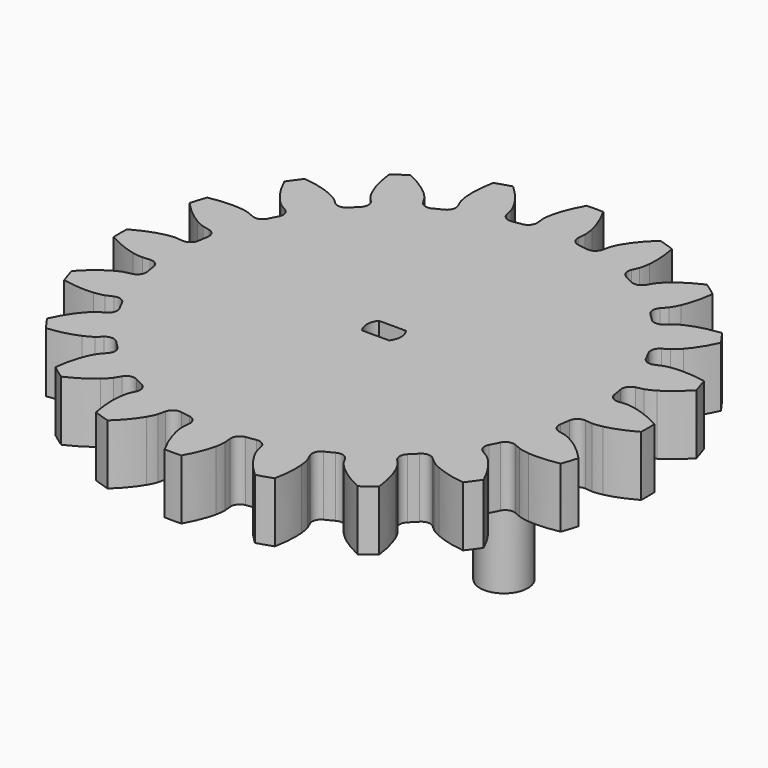
from build123d import *

# Parameters (mm, degrees)
PAD_DEPTH    = 10
POCKET_DEPTH = 10
SKETCH002_R  = 4
PAD001_DEPTH = 20
SKETCH003_R  = 4
PAD002_DEPTH = 20


with BuildPart() as part:
    # InvoluteGear → Pad (new body)
    with BuildSketch(Plane.XY):
        with BuildLine():
            Line((36.31006, -3.402875), (37.495418, -3.510949))
            add(Edge.make_bspline(
                [(37.495418, -3.510949), (37.684354, -3.516987), (38.253052, -3.51208), (39.201904, -3.30664)],
                knots=[0, 0, 0, 0, 1, 1, 1, 1], degree=3))
            add(Edge.make_bspline(
                [(39.201904, -3.30664), (40.336938, -3.057111), (41.97033, -2.52294), (43.982486, -1.38787)],
                knots=[0, 0, 0, 0, 1, 1, 1, 1], degree=3))
            ThreePointArc((43.982486, -1.38787), (44.00438, 0), (43.982486, 1.38787))
            add(Edge.make_bspline(
                [(43.982486, 1.38787), (41.97033, 2.52294), (40.336938, 3.057111), (39.201904, 3.30664)],
                knots=[0, 0, 0, 0, 1, 1, 1, 1], degree=3))
            add(Edge.make_bspline(
                [(39.201904, 3.30664), (38.253052, 3.51208), (37.684354, 3.516987), (37.495418, 3.510949)],
                knots=[0, 0, 0, 0, 1, 1, 1, 1], degree=3))
            Line((37.495418, 3.510949), (36.31006, 3.402875))
            ThreePointArc((36.31006, 3.402875), (35.237448, 3.721526), (34.683818, 4.693908))
            ThreePointArc((34.683818, 4.693908), (34.569092, 5.475206), (34.436768, 6.253717))
            ThreePointArc((34.436768, 6.253717), (34.662819, 7.349589), (35.584465, 7.984099))
            Line((35.584465, 7.984099), (36.745204, 8.247611))
            add(Edge.make_bspline(
                [(36.745204, 8.247611), (36.926759, 8.300253), (37.466107, 8.480657), (38.305035, 8.969253)],
                knots=[0, 0, 0, 0, 1, 1, 1, 1], degree=3))
            add(Edge.make_bspline(
                [(38.305035, 8.969253), (39.307406, 9.557314), (40.695787, 10.570086), (42.258705, 12.271393)],
                knots=[0, 0, 0, 0, 1, 1, 1, 1], degree=3))
            ThreePointArc((42.258705, 12.271393), (41.850652, 13.598101), (41.400954, 14.911278))
            add(Edge.make_bspline(
                [(41.400954, 14.911278), (39.136524, 15.369004), (37.418008, 15.372284), (36.261419, 15.258856)],
                knots=[0, 0, 0, 0, 1, 1, 1, 1], degree=3))
            add(Edge.make_bspline(
                [(36.261419, 15.258856), (35.295522, 15.161029), (34.753141, 14.989959), (34.575319, 14.925832)],
                knots=[0, 0, 0, 0, 1, 1, 1, 1], degree=3))
            Line((34.575319, 14.925832), (33.481373, 14.456752))
            ThreePointArc((33.481373, 14.456752), (32.36279, 14.428352), (31.535774, 15.182061))
            ThreePointArc((31.535774, 15.182061), (31.185228, 15.889667), (30.818808, 16.589185))
            ThreePointArc((30.818808, 16.589185), (30.695152, 17.701275), (31.375615, 18.589534))
            Line((31.375615, 18.589534), (32.398114, 19.198837))
            add(Edge.make_bspline(
                [(32.398114, 19.198837), (32.554515, 19.305005), (33.011718, 19.643248), (33.658601, 20.367173)],
                knots=[0, 0, 0, 0, 1, 1, 1, 1], degree=3))
            add(Edge.make_bspline(
                [(33.658601, 20.367173), (34.430193, 21.236202), (35.437657, 22.628439), (36.398348, 24.729446)],
                knots=[0, 0, 0, 0, 1, 1, 1, 1], degree=3))
            ThreePointArc((36.398348, 24.729446), (35.600291, 25.865125), (34.766809, 26.975067))
            add(Edge.make_bspline(
                [(34.766809, 26.975067), (32.471763, 26.710642), (30.836343, 26.182712), (29.771413, 25.717429)],
                knots=[0, 0, 0, 0, 1, 1, 1, 1], degree=3))
            add(Edge.make_bspline(
                [(29.771413, 25.717429), (28.883021, 25.325912), (28.42005, 24.995609), (28.270747, 24.879671)],
                knots=[0, 0, 0, 0, 1, 1, 1, 1], degree=3))
            Line((28.270747, 24.879671), (27.375296, 24.095501))
            ThreePointArc((27.375296, 24.095501), (26.320236, 23.72283), (25.300788, 24.184088))
            ThreePointArc((25.300788, 24.184088), (24.748737, 24.748737), (24.184088, 25.300788))
            ThreePointArc((24.184088, 25.300788), (23.72283, 26.320236), (24.095501, 27.375296))
            Line((24.095501, 27.375296), (24.879671, 28.270747))
            add(Edge.make_bspline(
                [(24.879671, 28.270747), (24.995609, 28.42005), (25.325912, 28.883021), (25.717429, 29.771413)],
                knots=[0, 0, 0, 0, 1, 1, 1, 1], degree=3))
            add(Edge.make_bspline(
                [(25.717429, 29.771413), (26.182712, 30.836343), (26.710642, 32.471763), (26.975067, 34.766809)],
                knots=[0, 0, 0, 0, 1, 1, 1, 1], degree=3))
            ThreePointArc((26.975067, 34.766809), (25.865125, 35.600291), (24.729446, 36.398348))
            add(Edge.make_bspline(
                [(24.729446, 36.398348), (22.628439, 35.437657), (21.236202, 34.430193), (20.367173, 33.658601)],
                knots=[0, 0, 0, 0, 1, 1, 1, 1], degree=3))
            add(Edge.make_bspline(
                [(20.367173, 33.658601), (19.643248, 33.011718), (19.305005, 32.554515), (19.198837, 32.398114)],
                knots=[0, 0, 0, 0, 1, 1, 1, 1], degree=3))
            Line((19.198837, 32.398114), (18.589534, 31.375615))
            ThreePointArc((18.589534, 31.375615), (17.701275, 30.695152), (16.589185, 30.818808))
            ThreePointArc((16.589185, 30.818808), (15.889667, 31.185228), (15.182061, 31.535774))
            ThreePointArc((15.182061, 31.535774), (14.428352, 32.36279), (14.456752, 33.481373))
            Line((14.456752, 33.481373), (14.925832, 34.575319))
            add(Edge.make_bspline(
                [(14.925832, 34.575319), (14.989959, 34.753141), (15.161029, 35.295522), (15.258856, 36.261419)],
                knots=[0, 0, 0, 0, 1, 1, 1, 1], degree=3))
            add(Edge.make_bspline(
                [(15.258856, 36.261419), (15.372284, 37.418008), (15.369004, 39.136524), (14.911278, 41.400954)],
                knots=[0, 0, 0, 0, 1, 1, 1, 1], degree=3))
            ThreePointArc((14.911278, 41.400954), (13.598101, 41.850652), (12.271393, 42.258705))
            add(Edge.make_bspline(
                [(12.271393, 42.258705), (10.570086, 40.695787), (9.557314, 39.307406), (8.969253, 38.305035)],
                knots=[0, 0, 0, 0, 1, 1, 1, 1], degree=3))
            add(Edge.make_bspline(
                [(8.969253, 38.305035), (8.480657, 37.466107), (8.300253, 36.926759), (8.247611, 36.745204)],
                knots=[0, 0, 0, 0, 1, 1, 1, 1], degree=3))
            Line((8.247611, 36.745204), (7.984099, 35.584465))
            ThreePointArc((7.984099, 35.584465), (7.349589, 34.662819), (6.253717, 34.436768))
            ThreePointArc((6.253717, 34.436768), (5.475206, 34.569092), (4.693908, 34.683818))
            ThreePointArc((4.693908, 34.683818), (3.721526, 35.237448), (3.402875, 36.31006))
            Line((3.402875, 36.31006), (3.510949, 37.495418))
            add(Edge.make_bspline(
                [(3.510949, 37.495418), (3.516987, 37.684354), (3.51208, 38.253052), (3.30664, 39.201904)],
                knots=[0, 0, 0, 0, 1, 1, 1, 1], degree=3))
            add(Edge.make_bspline(
                [(3.30664, 39.201904), (3.057111, 40.336938), (2.52294, 41.97033), (1.38787, 43.982486)],
                knots=[0, 0, 0, 0, 1, 1, 1, 1], degree=3))
            ThreePointArc((1.38787, 43.982486), (0, 44.00438), (-1.38787, 43.982486))
            add(Edge.make_bspline(
                [(-1.38787, 43.982486), (-2.52294, 41.97033), (-3.057111, 40.336938), (-3.30664, 39.201904)],
                knots=[0, 0, 0, 0, 1, 1, 1, 1], degree=3))
            add(Edge.make_bspline(
                [(-3.30664, 39.201904), (-3.51208, 38.253052), (-3.516987, 37.684354), (-3.510949, 37.495418)],
                knots=[0, 0, 0, 0, 1, 1, 1, 1], degree=3))
            Line((-3.510949, 37.495418), (-3.402875, 36.31006))
            ThreePointArc((-3.402875, 36.31006), (-3.721526, 35.237448), (-4.693908, 34.683818))
            ThreePointArc((-4.693908, 34.683818), (-5.475206, 34.569092), (-6.253717, 34.436768))
            ThreePointArc((-6.253717, 34.436768), (-7.349589, 34.662819), (-7.984099, 35.584465))
            Line((-7.984099, 35.584465), (-8.247611, 36.745204))
            add(Edge.make_bspline(
                [(-8.247611, 36.745204), (-8.300253, 36.926759), (-8.480657, 37.466107), (-8.969253, 38.305035)],
                knots=[0, 0, 0, 0, 1, 1, 1, 1], degree=3))
            add(Edge.make_bspline(
                [(-8.969253, 38.305035), (-9.557314, 39.307406), (-10.570086, 40.695787), (-12.271393, 42.258705)],
                knots=[0, 0, 0, 0, 1, 1, 1, 1], degree=3))
            ThreePointArc((-12.271393, 42.258705), (-13.598101, 41.850652), (-14.911278, 41.400954))
            add(Edge.make_bspline(
                [(-14.911278, 41.400954), (-15.369004, 39.136524), (-15.372284, 37.418008), (-15.258856, 36.261419)],
                knots=[0, 0, 0, 0, 1, 1, 1, 1], degree=3))
            add(Edge.make_bspline(
                [(-15.258856, 36.261419), (-15.161029, 35.295522), (-14.989959, 34.753141), (-14.925832, 34.575319)],
                knots=[0, 0, 0, 0, 1, 1, 1, 1], degree=3))
            Line((-14.925832, 34.575319), (-14.456752, 33.481373))
            ThreePointArc((-14.456752, 33.481373), (-14.428352, 32.36279), (-15.182061, 31.535774))
            ThreePointArc((-15.182061, 31.535774), (-15.889667, 31.185228), (-16.589185, 30.818808))
            ThreePointArc((-16.589185, 30.818808), (-17.701275, 30.695152), (-18.589534, 31.375615))
            Line((-18.589534, 31.375615), (-19.198837, 32.398114))
            add(Edge.make_bspline(
                [(-19.198837, 32.398114), (-19.305005, 32.554515), (-19.643248, 33.011718), (-20.367173, 33.658601)],
                knots=[0, 0, 0, 0, 1, 1, 1, 1], degree=3))
            add(Edge.make_bspline(
                [(-20.367173, 33.658601), (-21.236202, 34.430193), (-22.628439, 35.437657), (-24.729446, 36.398348)],
                knots=[0, 0, 0, 0, 1, 1, 1, 1], degree=3))
            ThreePointArc((-24.729446, 36.398348), (-25.865125, 35.600291), (-26.975067, 34.766809))
            add(Edge.make_bspline(
                [(-26.975067, 34.766809), (-26.710642, 32.471763), (-26.182712, 30.836343), (-25.717429, 29.771413)],
                knots=[0, 0, 0, 0, 1, 1, 1, 1], degree=3))
            add(Edge.make_bspline(
                [(-25.717429, 29.771413), (-25.325912, 28.883021), (-24.995609, 28.42005), (-24.879671, 28.270747)],
                knots=[0, 0, 0, 0, 1, 1, 1, 1], degree=3))
            Line((-24.879671, 28.270747), (-24.095501, 27.375296))
            ThreePointArc((-24.095501, 27.375296), (-23.72283, 26.320236), (-24.184088, 25.300788))
            ThreePointArc((-24.184088, 25.300788), (-24.748737, 24.748737), (-25.300788, 24.184088))
            ThreePointArc((-25.300788, 24.184088), (-26.320236, 23.72283), (-27.375296, 24.095501))
            Line((-27.375296, 24.095501), (-28.270747, 24.879671))
            add(Edge.make_bspline(
                [(-28.270747, 24.879671), (-28.42005, 24.995609), (-28.883021, 25.325912), (-29.771413, 25.717429)],
                knots=[0, 0, 0, 0, 1, 1, 1, 1], degree=3))
            add(Edge.make_bspline(
                [(-29.771413, 25.717429), (-30.836343, 26.182712), (-32.471763, 26.710642), (-34.766809, 26.975067)],
                knots=[0, 0, 0, 0, 1, 1, 1, 1], degree=3))
            ThreePointArc((-34.766809, 26.975067), (-35.600291, 25.865125), (-36.398348, 24.729446))
            add(Edge.make_bspline(
                [(-36.398348, 24.729446), (-35.437657, 22.628439), (-34.430193, 21.236202), (-33.658601, 20.367173)],
                knots=[0, 0, 0, 0, 1, 1, 1, 1], degree=3))
            add(Edge.make_bspline(
                [(-33.658601, 20.367173), (-33.011718, 19.643248), (-32.554515, 19.305005), (-32.398114, 19.198837)],
                knots=[0, 0, 0, 0, 1, 1, 1, 1], degree=3))
            Line((-32.398114, 19.198837), (-31.375615, 18.589534))
            ThreePointArc((-31.375615, 18.589534), (-30.695152, 17.701275), (-30.818808, 16.589185))
            ThreePointArc((-30.818808, 16.589185), (-31.185228, 15.889667), (-31.535774, 15.182061))
            ThreePointArc((-31.535774, 15.182061), (-32.36279, 14.428352), (-33.481373, 14.456752))
            Line((-33.481373, 14.456752), (-34.575319, 14.925832))
            add(Edge.make_bspline(
                [(-34.575319, 14.925832), (-34.753141, 14.989959), (-35.295522, 15.161029), (-36.261419, 15.258856)],
                knots=[0, 0, 0, 0, 1, 1, 1, 1], degree=3))
            add(Edge.make_bspline(
                [(-36.261419, 15.258856), (-37.418008, 15.372284), (-39.136524, 15.369004), (-41.400954, 14.911278)],
                knots=[0, 0, 0, 0, 1, 1, 1, 1], degree=3))
            ThreePointArc((-41.400954, 14.911278), (-41.850652, 13.598101), (-42.258705, 12.271393))
            add(Edge.make_bspline(
                [(-42.258705, 12.271393), (-40.695787, 10.570086), (-39.307406, 9.557314), (-38.305035, 8.969253)],
                knots=[0, 0, 0, 0, 1, 1, 1, 1], degree=3))
            add(Edge.make_bspline(
                [(-38.305035, 8.969253), (-37.466107, 8.480657), (-36.926759, 8.300253), (-36.745204, 8.247611)],
                knots=[0, 0, 0, 0, 1, 1, 1, 1], degree=3))
            Line((-36.745204, 8.247611), (-35.584465, 7.984099))
            ThreePointArc((-35.584465, 7.984099), (-34.662819, 7.349589), (-34.436768, 6.253717))
            ThreePointArc((-34.436768, 6.253717), (-34.569092, 5.475206), (-34.683818, 4.693908))
            ThreePointArc((-34.683818, 4.693908), (-35.237448, 3.721526), (-36.31006, 3.402875))
            Line((-36.31006, 3.402875), (-37.495418, 3.510949))
            add(Edge.make_bspline(
                [(-37.495418, 3.510949), (-37.684354, 3.516987), (-38.253052, 3.51208), (-39.201904, 3.30664)],
                knots=[0, 0, 0, 0, 1, 1, 1, 1], degree=3))
            add(Edge.make_bspline(
                [(-39.201904, 3.30664), (-40.336938, 3.057111), (-41.97033, 2.52294), (-43.982486, 1.38787)],
                knots=[0, 0, 0, 0, 1, 1, 1, 1], degree=3))
            ThreePointArc((-43.982486, 1.38787), (-44.00438, 0), (-43.982486, -1.38787))
            add(Edge.make_bspline(
                [(-43.982486, -1.38787), (-41.97033, -2.52294), (-40.336938, -3.057111), (-39.201904, -3.30664)],
                knots=[0, 0, 0, 0, 1, 1, 1, 1], degree=3))
            add(Edge.make_bspline(
                [(-39.201904, -3.30664), (-38.253052, -3.51208), (-37.684354, -3.516987), (-37.495418, -3.510949)],
                knots=[0, 0, 0, 0, 1, 1, 1, 1], degree=3))
            Line((-37.495418, -3.510949), (-36.31006, -3.402875))
            ThreePointArc((-36.31006, -3.402875), (-35.237448, -3.721526), (-34.683818, -4.693908))
            ThreePointArc((-34.683818, -4.693908), (-34.569092, -5.475206), (-34.436768, -6.253717))
            ThreePointArc((-34.436768, -6.253717), (-34.662819, -7.349589), (-35.584465, -7.984099))
            Line((-35.584465, -7.984099), (-36.745204, -8.247611))
            add(Edge.make_bspline(
                [(-36.745204, -8.247611), (-36.926759, -8.300253), (-37.466107, -8.480657), (-38.305035, -8.969253)],
                knots=[0, 0, 0, 0, 1, 1, 1, 1], degree=3))
            add(Edge.make_bspline(
                [(-38.305035, -8.969253), (-39.307406, -9.557314), (-40.695787, -10.570086), (-42.258705, -12.271393)],
                knots=[0, 0, 0, 0, 1, 1, 1, 1], degree=3))
            ThreePointArc((-42.258705, -12.271393), (-41.850652, -13.598101), (-41.400954, -14.911278))
            add(Edge.make_bspline(
                [(-41.400954, -14.911278), (-39.136524, -15.369004), (-37.418008, -15.372284), (-36.261419, -15.258856)],
                knots=[0, 0, 0, 0, 1, 1, 1, 1], degree=3))
            add(Edge.make_bspline(
                [(-36.261419, -15.258856), (-35.295522, -15.161029), (-34.753141, -14.989959), (-34.575319, -14.925832)],
                knots=[0, 0, 0, 0, 1, 1, 1, 1], degree=3))
            Line((-34.575319, -14.925832), (-33.481373, -14.456752))
            ThreePointArc((-33.481373, -14.456752), (-32.36279, -14.428352), (-31.535774, -15.182061))
            ThreePointArc((-31.535774, -15.182061), (-31.185228, -15.889667), (-30.818808, -16.589185))
            ThreePointArc((-30.818808, -16.589185), (-30.695152, -17.701275), (-31.375615, -18.589534))
            Line((-31.375615, -18.589534), (-32.398114, -19.198837))
            add(Edge.make_bspline(
                [(-32.398114, -19.198837), (-32.554515, -19.305005), (-33.011718, -19.643248), (-33.658601, -20.367173)],
                knots=[0, 0, 0, 0, 1, 1, 1, 1], degree=3))
            add(Edge.make_bspline(
                [(-33.658601, -20.367173), (-34.430193, -21.236202), (-35.437657, -22.628439), (-36.398348, -24.729446)],
                knots=[0, 0, 0, 0, 1, 1, 1, 1], degree=3))
            ThreePointArc((-36.398348, -24.729446), (-35.600291, -25.865125), (-34.766809, -26.975067))
            add(Edge.make_bspline(
                [(-34.766809, -26.975067), (-32.471763, -26.710642), (-30.836343, -26.182712), (-29.771413, -25.717429)],
                knots=[0, 0, 0, 0, 1, 1, 1, 1], degree=3))
            add(Edge.make_bspline(
                [(-29.771413, -25.717429), (-28.883021, -25.325912), (-28.42005, -24.995609), (-28.270747, -24.879671)],
                knots=[0, 0, 0, 0, 1, 1, 1, 1], degree=3))
            Line((-28.270747, -24.879671), (-27.375296, -24.095501))
            ThreePointArc((-27.375296, -24.095501), (-26.320236, -23.72283), (-25.300788, -24.184088))
            ThreePointArc((-25.300788, -24.184088), (-24.748737, -24.748737), (-24.184088, -25.300788))
            ThreePointArc((-24.184088, -25.300788), (-23.72283, -26.320236), (-24.095501, -27.375296))
            Line((-24.095501, -27.375296), (-24.879671, -28.270747))
            add(Edge.make_bspline(
                [(-24.879671, -28.270747), (-24.995609, -28.42005), (-25.325912, -28.883021), (-25.717429, -29.771413)],
                knots=[0, 0, 0, 0, 1, 1, 1, 1], degree=3))
            add(Edge.make_bspline(
                [(-25.717429, -29.771413), (-26.182712, -30.836343), (-26.710642, -32.471763), (-26.975067, -34.766809)],
                knots=[0, 0, 0, 0, 1, 1, 1, 1], degree=3))
            ThreePointArc((-26.975067, -34.766809), (-25.865125, -35.600291), (-24.729446, -36.398348))
            add(Edge.make_bspline(
                [(-24.729446, -36.398348), (-22.628439, -35.437657), (-21.236202, -34.430193), (-20.367173, -33.658601)],
                knots=[0, 0, 0, 0, 1, 1, 1, 1], degree=3))
            add(Edge.make_bspline(
                [(-20.367173, -33.658601), (-19.643248, -33.011718), (-19.305005, -32.554515), (-19.198837, -32.398114)],
                knots=[0, 0, 0, 0, 1, 1, 1, 1], degree=3))
            Line((-19.198837, -32.398114), (-18.589534, -31.375615))
            ThreePointArc((-18.589534, -31.375615), (-17.701275, -30.695152), (-16.589185, -30.818808))
            ThreePointArc((-16.589185, -30.818808), (-15.889667, -31.185228), (-15.182061, -31.535774))
            ThreePointArc((-15.182061, -31.535774), (-14.428352, -32.36279), (-14.456752, -33.481373))
            Line((-14.456752, -33.481373), (-14.925832, -34.575319))
            add(Edge.make_bspline(
                [(-14.925832, -34.575319), (-14.989959, -34.753141), (-15.161029, -35.295522), (-15.258856, -36.261419)],
                knots=[0, 0, 0, 0, 1, 1, 1, 1], degree=3))
            add(Edge.make_bspline(
                [(-15.258856, -36.261419), (-15.372284, -37.418008), (-15.369004, -39.136524), (-14.911278, -41.400954)],
                knots=[0, 0, 0, 0, 1, 1, 1, 1], degree=3))
            ThreePointArc((-14.911278, -41.400954), (-13.598101, -41.850652), (-12.271393, -42.258705))
            add(Edge.make_bspline(
                [(-12.271393, -42.258705), (-10.570086, -40.695787), (-9.557314, -39.307406), (-8.969253, -38.305035)],
                knots=[0, 0, 0, 0, 1, 1, 1, 1], degree=3))
            add(Edge.make_bspline(
                [(-8.969253, -38.305035), (-8.480657, -37.466107), (-8.300253, -36.926759), (-8.247611, -36.745204)],
                knots=[0, 0, 0, 0, 1, 1, 1, 1], degree=3))
            Line((-8.247611, -36.745204), (-7.984099, -35.584465))
            ThreePointArc((-7.984099, -35.584465), (-7.349589, -34.662819), (-6.253717, -34.436768))
            ThreePointArc((-6.253717, -34.436768), (-5.475206, -34.569092), (-4.693908, -34.683818))
            ThreePointArc((-4.693908, -34.683818), (-3.721526, -35.237448), (-3.402875, -36.31006))
            Line((-3.402875, -36.31006), (-3.510949, -37.495418))
            add(Edge.make_bspline(
                [(-3.510949, -37.495418), (-3.516987, -37.684354), (-3.51208, -38.253052), (-3.30664, -39.201904)],
                knots=[0, 0, 0, 0, 1, 1, 1, 1], degree=3))
            add(Edge.make_bspline(
                [(-3.30664, -39.201904), (-3.057111, -40.336938), (-2.52294, -41.97033), (-1.38787, -43.982486)],
                knots=[0, 0, 0, 0, 1, 1, 1, 1], degree=3))
            ThreePointArc((-1.38787, -43.982486), (0, -44.00438), (1.38787, -43.982486))
            add(Edge.make_bspline(
                [(1.38787, -43.982486), (2.52294, -41.97033), (3.057111, -40.336938), (3.30664, -39.201904)],
                knots=[0, 0, 0, 0, 1, 1, 1, 1], degree=3))
            add(Edge.make_bspline(
                [(3.30664, -39.201904), (3.51208, -38.253052), (3.516987, -37.684354), (3.510949, -37.495418)],
                knots=[0, 0, 0, 0, 1, 1, 1, 1], degree=3))
            Line((3.510949, -37.495418), (3.402875, -36.31006))
            ThreePointArc((3.402875, -36.31006), (3.721526, -35.237448), (4.693908, -34.683818))
            ThreePointArc((4.693908, -34.683818), (5.475206, -34.569092), (6.253717, -34.436768))
            ThreePointArc((6.253717, -34.436768), (7.349589, -34.662819), (7.984099, -35.584465))
            Line((7.984099, -35.584465), (8.247611, -36.745204))
            add(Edge.make_bspline(
                [(8.247611, -36.745204), (8.300253, -36.926759), (8.480657, -37.466107), (8.969253, -38.305035)],
                knots=[0, 0, 0, 0, 1, 1, 1, 1], degree=3))
            add(Edge.make_bspline(
                [(8.969253, -38.305035), (9.557314, -39.307406), (10.570086, -40.695787), (12.271393, -42.258705)],
                knots=[0, 0, 0, 0, 1, 1, 1, 1], degree=3))
            ThreePointArc((12.271393, -42.258705), (13.598101, -41.850652), (14.911278, -41.400954))
            add(Edge.make_bspline(
                [(14.911278, -41.400954), (15.369004, -39.136524), (15.372284, -37.418008), (15.258856, -36.261419)],
                knots=[0, 0, 0, 0, 1, 1, 1, 1], degree=3))
            add(Edge.make_bspline(
                [(15.258856, -36.261419), (15.161029, -35.295522), (14.989959, -34.753141), (14.925832, -34.575319)],
                knots=[0, 0, 0, 0, 1, 1, 1, 1], degree=3))
            Line((14.925832, -34.575319), (14.456752, -33.481373))
            ThreePointArc((14.456752, -33.481373), (14.428352, -32.36279), (15.182061, -31.535774))
            ThreePointArc((15.182061, -31.535774), (15.889667, -31.185228), (16.589185, -30.818808))
            ThreePointArc((16.589185, -30.818808), (17.701275, -30.695152), (18.589534, -31.375615))
            Line((18.589534, -31.375615), (19.198837, -32.398114))
            add(Edge.make_bspline(
                [(19.198837, -32.398114), (19.305005, -32.554515), (19.643248, -33.011718), (20.367173, -33.658601)],
                knots=[0, 0, 0, 0, 1, 1, 1, 1], degree=3))
            add(Edge.make_bspline(
                [(20.367173, -33.658601), (21.236202, -34.430193), (22.628439, -35.437657), (24.729446, -36.398348)],
                knots=[0, 0, 0, 0, 1, 1, 1, 1], degree=3))
            ThreePointArc((24.729446, -36.398348), (25.865125, -35.600291), (26.975067, -34.766809))
            add(Edge.make_bspline(
                [(26.975067, -34.766809), (26.710642, -32.471763), (26.182712, -30.836343), (25.717429, -29.771413)],
                knots=[0, 0, 0, 0, 1, 1, 1, 1], degree=3))
            add(Edge.make_bspline(
                [(25.717429, -29.771413), (25.325912, -28.883021), (24.995609, -28.42005), (24.879671, -28.270747)],
                knots=[0, 0, 0, 0, 1, 1, 1, 1], degree=3))
            Line((24.879671, -28.270747), (24.095501, -27.375296))
            ThreePointArc((24.095501, -27.375296), (23.72283, -26.320236), (24.184088, -25.300788))
            ThreePointArc((24.184088, -25.300788), (24.748737, -24.748737), (25.300788, -24.184088))
            ThreePointArc((25.300788, -24.184088), (26.320236, -23.72283), (27.375296, -24.095501))
            Line((27.375296, -24.095501), (28.270747, -24.879671))
            add(Edge.make_bspline(
                [(28.270747, -24.879671), (28.42005, -24.995609), (28.883021, -25.325912), (29.771413, -25.717429)],
                knots=[0, 0, 0, 0, 1, 1, 1, 1], degree=3))
            add(Edge.make_bspline(
                [(29.771413, -25.717429), (30.836343, -26.182712), (32.471763, -26.710642), (34.766809, -26.975067)],
                knots=[0, 0, 0, 0, 1, 1, 1, 1], degree=3))
            ThreePointArc((34.766809, -26.975067), (35.600291, -25.865125), (36.398348, -24.729446))
            add(Edge.make_bspline(
                [(36.398348, -24.729446), (35.437657, -22.628439), (34.430193, -21.236202), (33.658601, -20.367173)],
                knots=[0, 0, 0, 0, 1, 1, 1, 1], degree=3))
            add(Edge.make_bspline(
                [(33.658601, -20.367173), (33.011718, -19.643248), (32.554515, -19.305005), (32.398114, -19.198837)],
                knots=[0, 0, 0, 0, 1, 1, 1, 1], degree=3))
            Line((32.398114, -19.198837), (31.375615, -18.589534))
            ThreePointArc((31.375615, -18.589534), (30.695152, -17.701275), (30.818808, -16.589185))
            ThreePointArc((30.818808, -16.589185), (31.185228, -15.889667), (31.535774, -15.182061))
            ThreePointArc((31.535774, -15.182061), (32.36279, -14.428352), (33.481373, -14.456752))
            Line((33.481373, -14.456752), (34.575319, -14.925832))
            add(Edge.make_bspline(
                [(34.575319, -14.925832), (34.753141, -14.989959), (35.295522, -15.161029), (36.261419, -15.258856)],
                knots=[0, 0, 0, 0, 1, 1, 1, 1], degree=3))
            add(Edge.make_bspline(
                [(36.261419, -15.258856), (37.418008, -15.372284), (39.136524, -15.369004), (41.400954, -14.911278)],
                knots=[0, 0, 0, 0, 1, 1, 1, 1], degree=3))
            ThreePointArc((41.400954, -14.911278), (41.850652, -13.598101), (42.258705, -12.271393))
            add(Edge.make_bspline(
                [(42.258705, -12.271393), (40.695787, -10.570086), (39.307406, -9.557314), (38.305035, -8.969253)],
                knots=[0, 0, 0, 0, 1, 1, 1, 1], degree=3))
            add(Edge.make_bspline(
                [(38.305035, -8.969253), (37.466107, -8.480657), (36.926759, -8.300253), (36.745204, -8.247611)],
                knots=[0, 0, 0, 0, 1, 1, 1, 1], degree=3))
            Line((36.745204, -8.247611), (35.584465, -7.984099))
            ThreePointArc((35.584465, -7.984099), (34.662819, -7.349589), (34.436768, -6.253717))
            ThreePointArc((34.436768, -6.253717), (34.569092, -5.475206), (34.683818, -4.693908))
            ThreePointArc((34.683818, -4.693908), (35.237448, -3.721526), (36.31006, -3.402875))
        make_face()
    extrude(amount=PAD_DEPTH)

    # Sketch001 → Pocket (cut)
    with BuildSketch(Plane.XY):
        with BuildLine():
            Line((-2.25, 1.75), (2.25, 1.75))
            ThreePointArc((2.25, -1.75), (2.850439, 0), (2.25, 1.75))
            Line((-2.25, -1.75), (2.25, -1.75))
            ThreePointArc((-2.25, 1.75), (-2.850439, 0), (-2.25, -1.75))
        make_face()
    extrude(amount=POCKET_DEPTH, mode=Mode.SUBTRACT)

    # Sketch002 → Pad001 (join)
    with BuildSketch(Plane.XY):
        with Locations((-20, 0)):
            Circle(SKETCH002_R)
    extrude(amount=-PAD001_DEPTH)

    # Sketch003 → Pad002 (join)
    with BuildSketch(Plane.XY):
        with Locations((20, 0)):
            Circle(SKETCH003_R)
    extrude(amount=-PAD002_DEPTH)


with BuildPart() as part_1:
    # Body placement: moved
    add(part.part.moved(Location((0, 6, 0))))


solid = part_1.part
